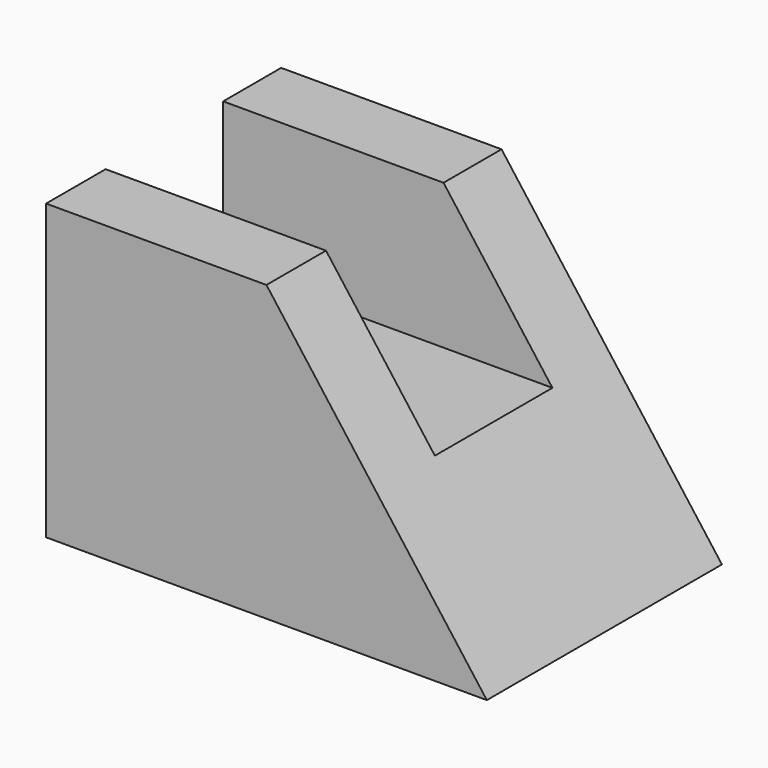
from build123d import *

# Parameters (mm, degrees)
F1_DEPTH = 25.4
F2_W     = 12.7
F2_H     = 12.7
F3_DEPTH = 38.1


with BuildPart() as f1:
    # F0 (on Front) → F1 (new body)
    with BuildSketch(Plane.XZ):
        Polygon((0, 25.4), (0, 0), (38.1, 0), (19.05, 25.4), align=None)
    extrude(amount=F1_DEPTH)

    # F2 (on Right) → F3 (cut)
    with BuildSketch(Plane.YZ):
        with Locations((-12.617821, 19.201342)):
            Rectangle(F2_W, F2_H)
    extrude(amount=F3_DEPTH, mode=Mode.SUBTRACT)


solid = f1.part
